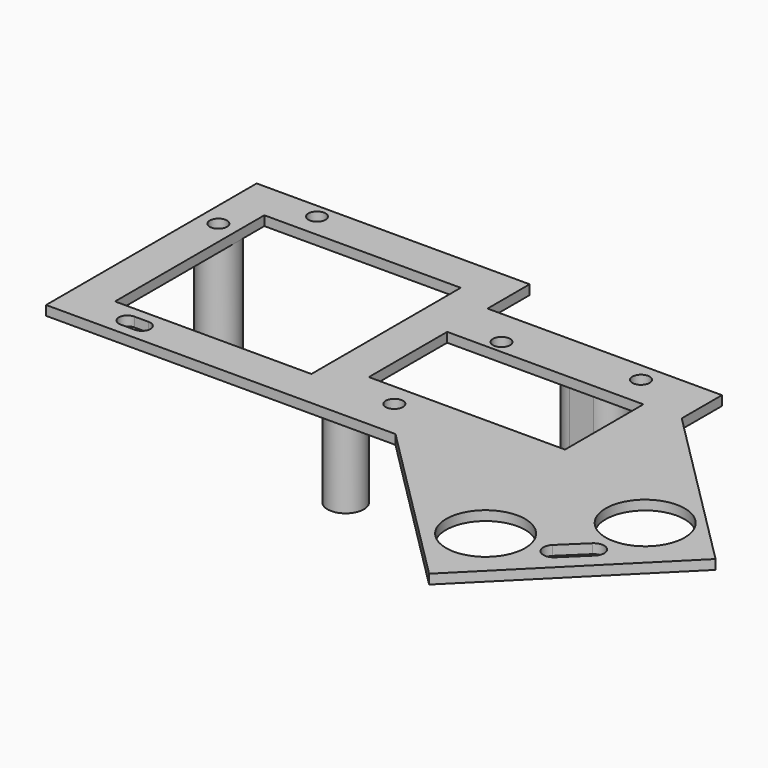
from build123d import *

# Parameters (mm, degrees)
SKETCH_R        = 1.8
SKETCH_W        = 41.028241
SKETCH_H        = 39
SKETCH_W_2      = 41
SKETCH_H_2      = 20.463
PAD_DEPTH       = 2
SKETCH001_R     = 3.8
SKETCH001_R_2   = 4
SKETCH001_R_3   = 1.8
PAD001_DEPTH    = 22
SKETCH002_R     = 8.25
POCKET_DEPTH    = 5
SKETCH003_R     = 1.8
POCKET001_DEPTH = 5
SKETCH004_W     = 53.310085
SKETCH004_H     = 13.854095
POCKET002_DEPTH = 5


with BuildPart() as part:
    # Sketch → Pad (new body)
    with BuildSketch(Plane.XY):
        Polygon((-53, 15), (53, 15), (53, -6.5), (88.355343, -41.855343), (55.105343, -75.105343), (20, -40), (-53, -40), align=None)
        with Locations((-49, 0)):
            Circle(SKETCH_R, mode=Mode.SUBTRACT)
        with Locations((39.3, 0)):
            Circle(SKETCH_R, mode=Mode.SUBTRACT)
        with Locations((13.2, -31.8)):
            Circle(SKETCH_R, mode=Mode.SUBTRACT)
        with Locations((13.2, -3.8)):
            Circle(SKETCH_R, mode=Mode.SUBTRACT)
        with Locations((-24.485879, -12.5)):
            Rectangle(SKETCH_W, SKETCH_H, mode=Mode.SUBTRACT)
        with Locations((24.528241, -16.768476)):
            Rectangle(SKETCH_W_2, SKETCH_H_2, mode=Mode.SUBTRACT)
        with BuildLine():
            ThreePointArc((-39.199998, -34.2), (-41, -36), (-39.199998, -37.8))
            Line((-39.199998, -37.8), (-36.200009, -37.8))
            ThreePointArc((-36.200009, -37.8), (-34.4, -36.000004), (-36.2, -34.2))
            Line((-39.199998, -34.2), (-36.2, -34.2))
        make_face(mode=Mode.SUBTRACT)
    extrude(amount=PAD_DEPTH)

    # Sketch001 → Pad001 (new body)
    with BuildSketch(Plane(origin=(0, 0, 0), x_dir=(1, 0, 0), z_dir=(0, 0, -1))):
        with Locations((0, 28)):
            Circle(SKETCH001_R)
        with Locations((-49, 0)):
            Circle(SKETCH001_R_2)
        with Locations((-49, 0)):
            Circle(SKETCH001_R_3, mode=Mode.SUBTRACT)
        with BuildLine():
            ThreePointArc((27.599984, 4), (23.6, -8e-06), (27.600001, -4))
            Line((27.600001, -4), (32.6, -4))
            ThreePointArc((32.6, -4), (36.6, 1e-05), (32.59998, 4))
            Line((27.599984, 4), (32.59998, 4))
        make_face()
        with BuildLine():
            ThreePointArc((27.599995, 1.85), (25.75, -3e-06), (27.600001, -1.85))
            Line((27.600001, -1.85), (32.6, -1.85))
            ThreePointArc((32.6, -1.85), (34.45, 4e-06), (32.599991, 1.85))
            Line((27.599995, 1.85), (32.599991, 1.85))
        make_face(mode=Mode.SUBTRACT)
    extrude(amount=PAD001_DEPTH)

    # Sketch002 → Pocket (cut)
    with BuildSketch(Plane.XY.offset(2)):
        with Locations((53.4328, -58.256155)):
            Circle(SKETCH002_R)
        with Locations((71.433789, -39.081839)):
            Circle(SKETCH002_R)
        with BuildLine():
            ThreePointArc((64.504552, -54.573607), (64.450253, -57.684403), (67.561049, -57.738702))
            Line((67.561049, -57.738702), (72.236758, -53.223423))
            ThreePointArc((72.236758, -53.223423), (72.291056, -50.112627), (69.18026, -50.058329))
            Line((64.504552, -54.573607), (69.18026, -50.058329))
        make_face()
    extrude(amount=-POCKET_DEPTH, mode=Mode.SUBTRACT)

    # Sketch003 → Pocket001 (cut)
    with BuildSketch(Plane.XY.offset(2)):
        with Locations((-38, 12)):
            Circle(SKETCH003_R)
    extrude(amount=-POCKET001_DEPTH, mode=Mode.SUBTRACT)

    # Sketch004 → Pocket002 (cut)
    with BuildSketch(Plane.XY.offset(2)):
        with Locations((30.683283, 10.927048)):
            Rectangle(SKETCH004_W, SKETCH004_H)
    extrude(amount=-POCKET002_DEPTH, mode=Mode.SUBTRACT)


solid = part.part
